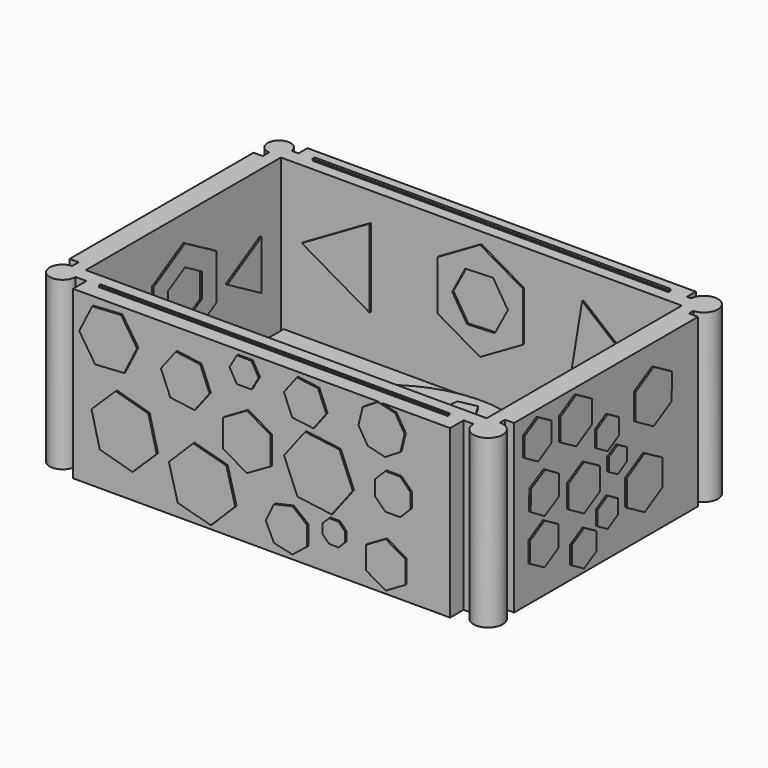
from build123d import *

# Parameters (mm, degrees)
F0_W      = 64.861446619
F0_H      = 41.391838342
F0_W_2    = 61.0209591687
F0_H_2    = 37.1246412396
F1_DEPTH  = 25.4
F2_W      = 60.1675212383
F2_H      = 37.1246412396
F3_DEPTH  = 2.54
F4_R      = 2.2275450851
F4_R_2    = 2.1442380233
F4_R_3    = 1.7594091729
F4_R_4    = 1.9670803666
F5_DEPTH  = 25.4
F6_W      = 57.3938377202
F6_H      = 3.413759172
F6_W_2    = 59.1007247567
F6_W_3    = 2.5603175163
F6_H_2    = 34.9910408258
F6_W_4    = 2.5603249669
F7_DEPTH  = 25.4
F9_DEPTH  = 0.254
F11_DEPTH = 0.254
F13_DEPTH = 0.254
F15_DEPTH = 0.254
F16_R     = 18.4947548304
F17_DEPTH = 0.254
F19_DEPTH = 0.254
F20_W     = 54.19344455
F20_H     = 0.4267171025
F20_W_2   = 53.0490502715
F20_H_2   = 0.3168359399
F21_DEPTH = 0.254
F23_DEPTH = 0.254
F25_DEPTH = 0.254
F27_DEPTH = 0.254
F29_DEPTH = 0.254
F31_DEPTH = 0.254
F33_DEPTH = 0.254
F35_DEPTH = 0.254
F36_R     = 5.0092077486
F36_W     = 7.882758975
F36_H     = 6.4007975161
F37_DEPTH = 0.254


with BuildPart() as f1:
    # F0 (on Top) → F1 (new body)
    with BuildSketch(Plane.XY):
        Rectangle(F0_W, F0_H)
        Rectangle(F0_W_2, F0_H_2, mode=Mode.SUBTRACT)
    extrude(amount=F1_DEPTH)

    # F2 (on Top) → F3 (join)
    with BuildSketch(Plane.XY):
        Rectangle(F2_W, F2_H)
    extrude(amount=F3_DEPTH)

    # F4 (on Top) → F5 (join)
    with BuildSketch(Plane.XY):
        with Locations((32.4307233095, -20.695919171)):
            Circle(F4_R)
        with Locations((32.3240421712, 20.4825606197)):
            Circle(F4_R_2)
        with Locations((-32.3240384459, 20.4825606197)):
            Circle(F4_R_3)
        with Locations((-32.3240384459, -20.695919171)):
            Circle(F4_R_4)
    extrude(amount=F5_DEPTH)

    # F6 (on Top) → F7 (join)
    with BuildSketch(Plane.XY):
        with Locations((0, -21.5493608266)):
            Rectangle(F6_W, F6_H)
        with Locations((0, 20.695919171)):
            Rectangle(F6_W_2, F6_H)
        with Locations((-32.5374007225, 0)):
            Rectangle(F6_W_3, F6_H_2)
        with Locations((32.5374007225, 0)):
            Rectangle(F6_W_4, F6_H_2)
    extrude(amount=F7_DEPTH)

    # F8 (on face) → F9 (join)
    with BuildSketch(Plane.XZ.offset(23.2562404126)):
        Polygon((-20.7212685662, 16.8047433188), (-18.7503316385, 20.7466150234), (-21.1786242093, 24.4244323243), (-25.5778537077, 24.1603779206), (-27.5487906354, 20.2185062161), (-25.1204980646, 16.5406889152), align=None)
        Polygon((-19.4499518484, 3.9599247435), (-15.7544475287, 7.5615152558), (-17.0257642464, 12.5627111326), (-21.992585284, 13.9623164972), (-25.6880896037, 10.3607259849), (-24.4167728859, 5.3595301081), align=None)
        Polygon((-9.9923607583, 15.3265422361), (-7.7165200685, 18.2829444015), (-9.1389191026, 21.7320813364), (-12.8371588265, 22.224816106), (-15.1129995162, 19.2684139407), (-13.6906004821, 15.8192770058), align=None)
        Polygon((-7.501792015, 0.7125681864), (-3.8062885018, 4.4080719685), (-5.1589369002, 9.4562237817), (-10.2070888119, 10.8088718129), (-13.9025923251, 7.1133680309), (-12.5499439266, 2.0652162176), align=None)
        Polygon((1.600200776, 11.560920734), (1.600200776, 15.7491600923), (-2.0269209053, 17.8432797714), (-5.6540425867, 15.7491600923), (-5.6540425867, 11.560920734), (-2.0269209053, 9.4668010549), align=None)
        Polygon((-3.5622903416, 20.9092814475), (-1.3449903307, 20.9092814475), (-0.2363403253, 22.8295195848), (-1.3449903307, 24.749757722), (-3.5622903416, 24.749757722), (-4.6709403471, 22.8295195848), align=None)
        Polygon((7.1475598961, 2.6153576476), (7.1475598961, 5.4923222485), (4.8982583972, 7.2860803374), (2.0934253054, 6.6458954875), (0.8451571471, 4.053839948), (2.0934253054, 1.4617844086), (4.8982583972, 0.8215995586), align=None)
        Polygon((10.8801770869, 8.1471607652), (14.082946637, 12.3353998545), (12.0572099635, 17.2031991921), (6.82870374, 17.8827594403), (3.6259341898, 13.6945203509), (5.6516708633, 8.8267210134), align=None)
        Polygon((8.0823334389, 18.7630983484), (10.0532682158, 21.3485849607), (8.7996385168, 24.3482078528), (5.575074041, 24.7623441326), (3.6041392642, 22.1768575204), (4.8577689631, 19.1772346283), align=None)
        Polygon((22.0827627927, 2.3292693298), (22.0827627927, 5.7784105663), (19.0957188606, 7.5029811846), (16.1086749285, 5.7784105663), (16.1086749285, 2.3292693298), (19.0957188606, 0.6046987115), align=None)
        Polygon((10.4870607018, 4.053839948), (11.9157417805, 4.053839948), (12.9259718594, 5.0640700269), (12.9259718594, 6.4927511057), (11.9157417805, 7.5029811846), (10.4870607018, 7.5029811846), (9.4768306229, 6.4927511057), (9.4768306229, 5.0640700269), align=None)
        Polygon((19.0031994418, 18.4702219544), (21.3218386932, 19.8842473021), (21.9614973189, 22.5236397521), (20.5474719712, 24.8422790035), (17.9080795213, 25.4819376292), (15.5894402698, 24.0679122815), (14.9497816442, 21.4285198315), (16.3638069919, 19.1098805801), align=None)
        Polygon((21.2873733417, 11.1527689018), (22.8781522437, 12.7435508899), (22.8781500614, 14.9932541699), (21.2873680734, 16.5840330719), (19.0376647933, 16.5840308896), (17.4468858914, 14.9932489016), (17.4468880736, 12.7435456215), (19.0376700617, 11.1527667196), align=None)
    extrude(amount=F9_DEPTH)

    # F10 (on face) → F11 (join)
    with BuildSketch(Plane(origin=(0, 22.402798757, 0), x_dir=(-1, 0, 0), z_dir=(0, 1, 0))):
        Polygon((-21.5010339037, 15.4915786651), (-19.037366508, 19.9261829885), (-21.6460128099, 24.2770837014), (-26.7183265075, 24.1933800908), (-29.1819939032, 19.7587757674), (-26.5733476013, 15.4078750546), align=None)
        Polygon((-19.3674340276, 1.8035308154), (-16.9037655565, 6.7308699084), (-19.9391321485, 11.3281389374), (-25.4381672117, 10.9980688734), (-27.9018356828, 6.0707297804), (-24.8664690907, 1.4734607514), align=None)
        Polygon((-11.9328423441, 10.1575776306), (-8.9764391034, 14.592181954), (-11.3387174828, 19.369804426), (-16.657399103, 19.7128225746), (-19.6138023437, 15.2782182512), (-17.2515239643, 10.5005957792), align=None)
        Polygon((-10.2082737422, 0.4267199741), (-7.7446044646, 3.8404803878), (-9.4691730665, 7.6809607757), (-13.657410946, 8.1076807498), (-16.1210802237, 4.693920336), (-14.3965116218, 0.8534399482), align=None)
        Polygon((-1.920239185, 8.4330084238), (-1.920239185, 11.8821468374), (-4.9072806723, 13.6067160443), (-7.8943221597, 11.8821468374), (-7.8943221597, 8.4330084238), (-4.9072806723, 6.708439217), align=None)
        Polygon((-7.2392626091, 18.6867013824), (-4.4761602751, 20.0529074696), (-4.2777782865, 23.1289273278), (-6.8424986318, 24.8387410987), (-9.6056009658, 23.4725350114), (-9.8039829545, 20.3965151533), align=None)
        Polygon((4.0430211602, 13.089779781), (6.6249790461, 16.0945841271), (6.3259814467, 20.0450215862), (3.3211771007, 22.6269794721), (-0.6292603584, 22.3279818727), (-3.2112182443, 19.3231775266), (-2.912220645, 15.3727400675), (0.0925837011, 12.7907821816), align=None)
        Polygon((3.3834337646, 1.073081122), (5.1509660279, 3.19411924), (4.9009996409, 5.9437537257), (2.7799615229, 7.711285989), (0.0303270371, 7.4613196019), (-1.7372052261, 5.3402814839), (-1.4872388391, 2.5906469982), (0.6337992789, 0.8231147349), align=None)
        Polygon((12.5882392749, 8.6551755058), (12.5882392749, 11.6599797555), (10.4635218139, 13.7846972165), (7.4587175642, 13.7846972165), (5.3340001032, 11.6599797555), (5.3340001032, 8.6551755058), (7.4587175642, 6.5304580448), (10.4635218139, 6.5304580448), align=None)
        Polygon((14.3942606756, 16.2948547076), (16.3295830479, 19.1229069461), (15.6983277057, 22.4911214346), (12.8702754673, 24.4264438069), (9.5020609787, 23.7951884647), (7.5667386064, 20.9671362263), (8.1979939486, 17.5989217377), (11.0260461871, 15.6635993654), align=None)
        Polygon((16.2966940699, 1.0821173817), (18.2676296534, 4.0385227732), (16.6927752721, 7.2236057535), (13.1469853075, 7.4522833422), (11.1760497241, 4.4958779507), (12.7509041053, 1.3107949704), align=None)
        Polygon((22.4028006196, 10.2477543521), (22.4028006196, 14.9287260603), (18.3489602059, 17.2692119144), (14.2951197922, 14.9287260603), (14.2951197922, 10.2477543521), (18.3489602059, 7.9072684981), align=None)
        Polygon((24.1096783429, 20.0711608193), (24.1096783429, 23.0275608339), (21.5493608266, 24.5057608411), (18.9890433103, 23.0275608339), (18.9890433103, 20.0711608193), (21.5493608266, 18.5929608121), align=None)
        Polygon((25.7747105114, 0.3760240441), (27.9920132108, 4.3178957487), (25.6869035259, 8.2090720665), (21.1644911416, 8.1583766798), (18.9471884422, 4.2165049752), (21.2522981271, 0.3253286574), align=None)
    extrude(amount=F11_DEPTH)

    # F12 (on face) → F13 (join)
    with BuildSketch(Plane.YZ.offset(33.817563206)):
        Polygon((-10.6680002064, 20.0711592063), (-10.6680002064, 23.027562447), (-13.2283205166, 24.5057640673), (-15.7886408269, 23.027562447), (-15.7886408269, 20.0711592063), (-13.2283205166, 18.5929575859), align=None)
        Polygon((-12.0230181343, 10.7823391892), (-9.3129822784, 12.2605408095), (-9.2381245056, 15.3466015161), (-11.8733025887, 16.9544606023), (-14.5833384446, 15.4762589819), (-14.6581962174, 12.3901982754), align=None)
        Polygon((-9.3129822784, 5.4762402239), (-9.3129822784, 8.6055200857), (-12.0230181343, 10.1701600167), (-14.7330539902, 8.6055200857), (-14.7330539902, 5.4762402239), (-12.0230181343, 3.911600293), align=None)
        Polygon((-2.9870392755, 19.3980709936), (-2.9870392755, 22.847209004), (-5.9740804136, 24.5717780091), (-8.9611215517, 22.847209004), (-8.9611215517, 19.3980709936), (-5.9740804136, 17.6735019885), align=None)
        Polygon((-4.4805598445, 8.072301989), (-1.4935187064, 9.7968709942), (-1.4935187064, 13.2460090045), (-4.4805598445, 14.9705780097), (-7.4676009826, 13.2460090045), (-7.4676009826, 9.7968709942), align=None)
        Polygon((-2.1335999481, 2.0587421753), (-2.1335999481, 4.7687780312), (-4.4805598445, 6.1237959592), (-6.8275197409, 4.7687780312), (-6.8275197409, 2.0587421753), (-4.4805598445, 0.7037242474), align=None)
        Polygon((2.1335999481, 15.8369669433), (2.1335999481, 18.3006359521), (0, 19.5324704566), (-2.1335999481, 18.3006359521), (-2.1335999481, 15.8369669433), (0, 14.6051324389), align=None)
        Polygon((1.920239185, 5.2921492341), (1.920239185, 7.5094504548), (0, 8.6181010651), (-1.920239185, 7.5094504548), (-1.920239185, 5.2921492341), (0, 4.1834986237), align=None)
        Polygon((3.6271195859, 11.7145321411), (3.6271195859, 13.6854678589), (1.920239185, 14.6709357179), (0.2133587841, 13.6854678589), (0.2133587841, 11.7145321411), (1.920239185, 10.7290642821), align=None)
        Polygon((10.4546388611, 5.5385162156), (10.4546388611, 9.480384694), (7.0408806205, 11.4513189331), (3.6271223798, 9.480384694), (3.6271223798, 5.5385162156), (7.0408806205, 3.5675819764), align=None)
        Polygon((8.7300703936, 14.3764528795), (12.1792073286, 16.3473871187), (12.1968966757, 20.3198944451), (8.765449088, 22.3214675323), (5.316312153, 20.3505332931), (5.2986228059, 16.3780259667), align=None)
    extrude(amount=F13_DEPTH)

    # F14 (on face) → F15 (join)
    with BuildSketch(Plane(origin=(-33.8175594807, 0, 0), x_dir=(0, -1, 0), z_dir=(-1, 0, 0))):
        Polygon((-10.0279198959, 19.521254686), (-10.0279198959, 22.7240253116), (-12.8016006202, 24.3254106243), (-15.5752813444, 22.7240253116), (-15.5752813444, 19.521254686), (-12.8016006202, 17.9198693733), align=None)
        Polygon((-11.5061215163, 7.5203476536), (-8.5497182756, 9.1217329663), (-8.4583570173, 12.482745933), (-11.3233989998, 14.2423735869), (-14.2798022405, 12.6409882742), (-14.3711634988, 9.2799753075), align=None)
        Polygon((-2.5603196118, 15.6807748207), (-2.5603196118, 18.8835451774), (-5.3340001032, 20.4849303557), (-8.1076805945, 18.8835451774), (-8.1076805945, 15.6807748207), (-5.3340001032, 14.0793896423), align=None)
        Polygon((-2.5603196118, 4.4057027102), (0.1370420329, 5.9630251819), (0.1370420329, 9.0776701253), (-2.5603196118, 10.6349925969), (-5.2576812565, 9.0776701253), (-5.2576812565, 5.9630251819), align=None)
        Polygon((-8.7477602065, 1.8783888931), (-8.7477602065, 4.0956910548), (-10.6680002064, 5.2043421357), (-12.5882402062, 4.0956910548), (-12.5882402062, 1.8783888931), (-10.6680002064, 0.7697378123), align=None)
        Polygon((4.9072806723, 13.2436392685), (4.9072806723, 16.2000419716), (2.3469608277, 17.6782433231), (-0.2133590169, 16.2000419716), (-0.2133590169, 13.2436392685), (2.3469608277, 11.765437917), align=None)
        Polygon((8.5343997926, 3.4376354384), (8.5343997926, 6.9310924538), (5.8031051153, 9.1092272761), (2.397236361, 8.3318599583), (0.8814821687, 5.1843639461), (2.397236361, 2.0368679339), (5.8031051153, 1.2595006161), align=None)
        Polygon((2.1335999481, 20.5308867361), (2.1335999481, 22.9945557449), (0, 24.2263902493), (-2.1335999481, 22.9945557449), (-2.1335999481, 20.5308867361), (0, 19.2990522317), align=None)
        Polygon((11.9481608272, 10.2565973239), (11.9481608272, 13.21300164), (9.3878395855, 14.691203798), (6.8275183439, 13.21300164), (6.8275183439, 10.2565973239), (9.3878395855, 8.7783951658), align=None)
        Polygon((15.5752785504, 2.9121840471), (15.5752785504, 5.6222166768), (13.228321448, 6.9772329917), (10.8813643456, 5.6222166768), (10.8813643456, 2.9121840471), (13.228321448, 1.5571677322), align=None)
        Polygon((7.9426442543, 18.766835268), (10.4063159516, 20.4914026601), (10.1446326282, 23.4872886326), (7.4192776075, 24.758607213), (4.9556059102, 23.0340398209), (5.2172892336, 20.0381538484), align=None)
        Polygon((15.3619218618, 15.8369666745), (15.3619218618, 18.300636221), (13.228321448, 19.5324709942), (11.0947210342, 18.300636221), (11.0947210342, 15.8369666745), (13.228321448, 14.6051319012), align=None)
    extrude(amount=F15_DEPTH)

    # F16 (on face) → F17 (join)
    with BuildSketch(Plane.XY.offset(2.54)):
        Circle(F16_R)
        Polygon((2.4380462266, 11.1391000634), (8.4277205169, 14.5972401273), (8.4277205169, 9.8281231695), (8.8692086468, 9.7314934182), (10.8657667435, 3.4581400639), (16.8554410338, 0), (12.7252645948, -2.3845584789), (12.8623248403, -2.8152132905), (8.4277205169, -7.6809599996), (8.4277205169, -14.5972401273), (4.2975440779, -12.2126816484), (3.9931161935, -12.5467067087), (-2.4380462266, -11.1391000634), (-8.4277205169, -14.5972401273), (-8.4277205169, -9.8281231695), (-8.8692086468, -9.7314934182), (-10.8657667435, -3.4581400639), (-16.8554410338, 0), (-12.7252645948, 2.3845584789), (-12.8623248403, 2.8152132905), (-8.4277205169, 7.6809599996), (-8.4277205169, 14.5972401273), (-4.2975440779, 12.2126816484), (-3.9931161935, 12.5467067087), align=None, mode=Mode.SUBTRACT)
    extrude(amount=F17_DEPTH)

    # F18 (on face) → F19 (join)
    with BuildSketch(Plane.XY.offset(2.794)):
        Polygon((-10.9382219624, 8.1973144672), (-13.1591512023, 10.2214523844), (-15.7705256368, 8.7347161739), (-15.1635145547, 5.7917247463), (-12.17698664, 5.459592226), align=None)
        Polygon((2.3480205626, 14.3504532217), (0.9602865517, 16.7540790359), (-1.7545308347, 16.1770267867), (-2.0446462418, 13.4167630692), (0.4908699622, 12.2878785231), align=None)
        Polygon((14.7218396887, 6.2858246523), (14.7218396887, 9.0760953468), (12.0681345625, 9.9383364103), (10.4280545983, 7.6809599996), (12.0681345625, 5.4235835888), align=None)
        Polygon((10.415673359, -7.9722377982), (12.5862069708, -9.9504455255), (15.1383260934, -8.4974451963), (14.5450888426, -5.6212338799), (11.6263289357, -5.2966378567), align=None)
        Polygon((2.4380462266, -16.3685843962), (2.4380462266, -12.8258958584), (-0.9312507924, -11.7311448945), (-3.0135908684, -14.5972401273), (-0.9312507924, -17.4633353601), align=None)
        Polygon((-11.8684736922, -10.3592842309), (-10.0079702327, -7.5633990928), (-12.092087825, -4.9299791321), (-15.2406467931, -6.0983212278), (-15.1024456586, -9.4538163142), align=None)
    extrude(amount=F19_DEPTH)

    # F20 (on face) → F21 (join)
    with BuildSketch(Plane.XY.offset(25.4)):
        with Locations((0, 20.4825606197)):
            Rectangle(F20_W, F20_H)
        with Locations((0, -20.8543371409)):
            Rectangle(F20_W_2, F20_H_2)
    extrude(amount=F21_DEPTH)

    # F22 (on face) → F23 (join)
    with BuildSketch(Plane.XZ.offset(-18.5623206198)):
        Polygon((-6.5059550107, 19.9590670067), (-6.5059550107, 12.4466372532), (0, 8.6904223765), (6.5059550107, 12.4466372532), (6.5059550107, 19.9590670067), (0, 23.7152818834), align=None)
        Polygon((-2.2528677468, 19.7991396299), (1.9880424609, 19.95203658), (4.2409102077, 16.35574908), (2.2528677468, 12.6065646299), (-1.9880424609, 12.4536676799), (-4.2409102077, 16.0499551799), align=None, mode=Mode.SUBTRACT)
        Polygon((-16.8245844543, 9.1732696607), (-16.8245844543, 21.0813979642), (-27.1373260766, 15.1273338124), align=None)
        Polygon((24.2609402611, 14.0709687486), (15.5294181333, 21.2248455271), (13.6997401714, 10.0861871615), align=None)
    extrude(amount=F23_DEPTH)

    # F24 (on face) → F25 (join)
    with BuildSketch(Plane(origin=(0, -18.5623206198, 0), x_dir=(-1, 0, 0), z_dir=(0, 1, 0))):
        Polygon((5.8152349666, 12.8011533067), (5.8152349666, 19.5160082534), (0, 22.8734357267), (-5.8152349666, 19.5160082534), (-5.8152349666, 12.8011533067), (0, 9.4437258333), align=None)
        Polygon((0, 19.6077166396), (2.9870392755, 17.8831487098), (2.9870392755, 14.4340128503), (0, 12.7094449205), (-2.9870392755, 14.4340128503), (-2.9870392755, 17.8831487098), align=None, mode=Mode.SUBTRACT)
        Polygon((-14.0717336908, 12.3181702523), (-20.0458122417, 23.4481271673), (-26.6975983977, 12.7094449205), align=None)
        Polygon((24.7973455116, 12.631808126), (18.8232669607, 23.1344892936), (12.7147175372, 12.7094449205), align=None)
    extrude(amount=F25_DEPTH)

    # F26 (on face) → F27 (join)
    with BuildSketch(Plane.YZ.offset(-30.5104795843)):
        Polygon((5.9862695634, 11.1423656865), (5.9862695634, 18.0547143743), (0, 21.5108887182), (-5.9862695634, 18.0547143743), (-5.9862695634, 11.1423656865), (0, 7.6861913426), align=None)
        Polygon((0, 18.3076527139), (3.2121858094, 16.4530963722), (3.2121858094, 12.7439836887), (0, 10.8894273469), (-3.2121858094, 12.7439836887), (-3.2121858094, 16.4530963722), align=None, mode=Mode.SUBTRACT)
    extrude(amount=F27_DEPTH)

    # F28 (on face) → F29 (join)
    with BuildSketch(Plane(origin=(30.5104795843, 0, 0), x_dir=(0, -1, 0), z_dir=(-1, 0, 0))):
        Polygon((5.6830891408, 10.738537851), (5.6830891408, 17.3008039415), (0, 20.5819369868), (-5.6830891408, 17.3008039415), (-5.6830891408, 10.738537851), (0, 7.4574048057), align=None)
        Polygon((0, 17.3008039415), (2.8415445704, 15.6602374189), (2.8415445704, 12.3791043736), (0, 10.738537851), (-2.8415445704, 12.3791043736), (-2.8415445704, 15.6602374189), align=None, mode=Mode.SUBTRACT)
    extrude(amount=F29_DEPTH)

    # F30 (on face) → F31 (join)
    with BuildSketch(Plane(origin=(30.5104795843, 0, 0), x_dir=(0, -1, 0), z_dir=(-1, 0, 0))):
        Polygon((-9.590161033, 7.8945213213), (-9.590161033, 17.5054786787), (-17.9134942591, 12.7), align=None)
        Polygon((15.3793236241, 9.9414413278), (15.3793236241, 18.0979004647), (8.3156228065, 14.0196708962), align=None)
    extrude(amount=F31_DEPTH)

    # F32 (on face) → F33 (join)
    with BuildSketch(Plane.YZ.offset(-30.5104795843)):
        Polygon((-9.9064204842, 9.4976915651), (-9.9064204842, 19.1092522211), (-18.2302761823, 14.3034718931), align=None)
        Polygon((14.5785324275, 8.9324402049), (14.5785324275, 16.4675597951), (8.0529274419, 12.7), align=None)
    extrude(amount=F33_DEPTH)

    # F34 (on face) → F35 (join)
    with BuildSketch(Plane.XY.offset(2.54)):
        Polygon((6.8990561218, 2.6137526716), (8.0850079699, 4.6678815278), (6.1208359289, 4.6678815278), align=None)
        Polygon((8.7980585954, -2.398705004), (6.8990561218, 2.6137526716), (5.3900053133, 0), (7.4155185042, -3.5082917581), align=None)
        Polygon((5.3900053133, 0), (6.8990561218, 2.6137526716), (6.1208359289, 4.6678815278), (2.6950026566, 4.6678815278), align=None)
        Polygon((2.6950026566, 4.6678815278), (6.1208359289, 4.6678815278), (5.0000536482, 7.6262103472), (1.0952795217, 7.4386832756), align=None)
        Polygon((7.4155185042, -3.5082917581), (5.3900053133, 0), (2.6950026566, -4.6678815278), (5.970674881, -4.6678815278), align=None)
        Polygon((-2.6950026566, 4.6678815278), (2.6950026566, 4.6678815278), (1.0952795217, 7.4386832756), (-1.1577499229, 7.3304813668), align=None)
        Polygon((5.970674881, -4.6678815278), (2.6950026566, -4.6678815278), (0.2152198544, -8.9629913331), (0.4374455988, -9.1086915687), align=None)
        Polygon((0.2152198544, -8.9629913331), (2.6950026566, -4.6678815278), (-2.6950026566, -4.6678815278), (-0.477400382, -8.5088813385), align=None)
        Polygon((8.0850079699, -4.6678815278), (7.4155185042, -3.5082917581), (5.970674881, -4.6678815278), align=None)
        Polygon((-5.3900053133, 0), (-2.6950026566, 4.6678815278), (-6.3742102921, 4.6678815278), (-6.9229603198, 2.6551559571), align=None)
        Polygon((-6.3742102921, 4.6678815278), (-2.6950026566, 4.6678815278), (-1.1577499229, 7.3304813668), (-5.7078554952, 7.1119622039), align=None)
        Polygon((-1.1577499229, 7.3304813668), (1.0952795217, 7.4386832756), (0, 9.3357630557), align=None)
        Polygon((0, -9.3357630557), (0.2152198544, -8.9629913331), (-0.477400382, -8.5088813385), align=None)
        Polygon((-6.3357920234, -4.6678815278), (-2.6950026566, -4.6678815278), (-5.3900053133, 0), (-7.6046874915, -3.8359420552), align=None)
        Polygon((-0.477400382, -8.5088813385), (-2.6950026566, -4.6678815278), (-6.3357920234, -4.6678815278), align=None)
        Polygon((-6.9229603198, 2.6551559571), (-6.3742102921, 4.6678815278), (-8.0850079699, 4.6678815278), align=None)
        Polygon((-7.6046874915, -3.8359420552), (-5.3900053133, 0), (-6.9229603198, 2.6551559571), (-8.5277023472, -3.2307759785), align=None)
        Polygon((-8.0850079699, -4.6678815278), (-6.3357920234, -4.6678815278), (-7.6046874915, -3.8359420552), align=None)
    extrude(amount=F35_DEPTH)

    # F36 (on face) → F37 (join)
    with BuildSketch(Plane(origin=(0, 0, 0), x_dir=(1, 0, 0), z_dir=(0, 0, -1))):
        Polygon((-23.2541374862, 9.9241932977), (-17.3420682549, 20.1641975841), (-29.1662067175, 20.1641975841), align=None)
        with Locations((22.8600017726, 15.0441954409)):
            Circle(F36_R)
        with Locations((-23.2541374862, -17.4955204129)):
            Rectangle(F36_W, F36_H)
        Polygon((22.4154572934, -20.879952237), (22.7048452944, -20.879952237), (24.8810965568, -20.879952237), (24.8810965568, -14.1110885888), (24.8810965568, -11.977488175), (22.4154572934, -11.977488175), align=None)
    extrude(amount=F37_DEPTH)


solid = f1.part
